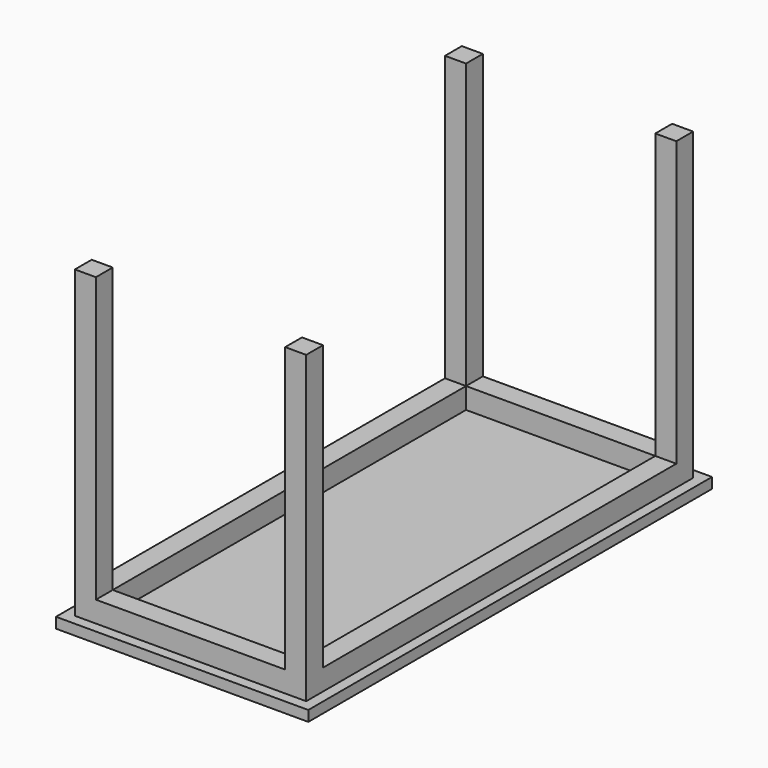
from build123d import *

# Parameters (mm, degrees)
F0_W     = 609.6
F0_H     = 1219.2
F1_DEPTH = 25.4
F2_W     = 558.8
F2_H     = 1168.4
F2_W_2   = 457.2
F2_H_2   = 1066.8
F3_DEPTH = 50.8
F4_W     = 50.8
F4_H     = 50.8
F5_DEPTH = 685.8


with BuildPart() as f1:
    # F0 (on Top) → F1 (new body)
    with BuildSketch(Plane.XY):
        with Locations((-10.056729, -14.887511)):
            Rectangle(F0_W, F0_H)
    extrude(amount=F1_DEPTH)

    # F2 (on face) → F3 (join)
    with BuildSketch(Plane.XY.offset(25.4)):
        with Locations((-10.056729, -14.887511)):
            Rectangle(F2_W, F2_H)
        with Locations((-10.056729, -14.887511)):
            Rectangle(F2_W_2, F2_H_2, mode=Mode.SUBTRACT)
    extrude(amount=F3_DEPTH)

    # F4 (on face) → F5 (join)
    with BuildSketch(Plane.XY.offset(76.2)):
        with Locations((-264.056729, 543.912489)):
            Rectangle(F4_W, F4_H)
        with Locations((243.943271, 543.912489)):
            Rectangle(F4_W, F4_H)
        with Locations((-264.056729, -573.687511)):
            Rectangle(F4_W, F4_H)
        with Locations((243.943271, -573.687511)):
            Rectangle(F4_W, F4_H)
    extrude(amount=F5_DEPTH)


solid = f1.part
